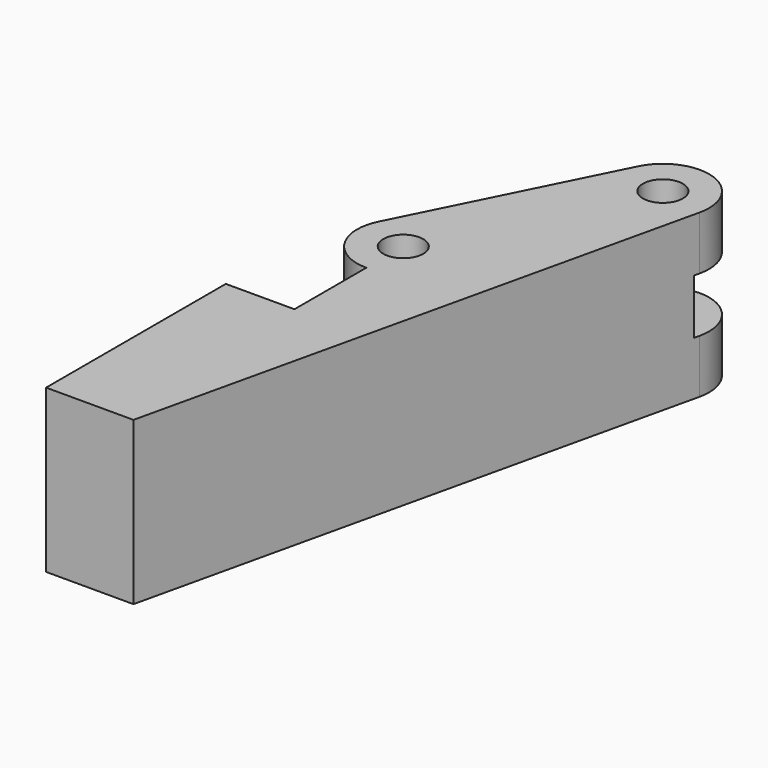
from build123d import *

# Parameters (mm, degrees)
CYLINDER005_R            = 1.6
CYLINDER005_DEPTH        = 30
PAD001_DEPTH             = 13
SKETCH001_W              = 28
SKETCH001_H              = 4.4
POCKET002_DEPTH          = 7.4
CLONE016_PLACEMENT_ANGLE = 180


with BuildPart() as finger_drill_master:
    # Cylinder005 → Cylinder005 (new body)
    with BuildSketch(Plane.XY.offset(-8)):
        Circle(CYLINDER005_R)
    extrude(amount=CYLINDER005_DEPTH)


with BuildPart() as clone001:
    # Clone001 base: copy of finger-drill-master
    add(finger_drill_master.part)


with BuildPart() as clone001_1:
    # Clone001 placement: moved
    add(clone001.part.moved(Location((-5.5, 28.9, 0))))


with BuildPart() as finger_drills:
    # Clone002 base: copy of finger-drill-master
    add(finger_drill_master.part)


with BuildPart() as finger_drills_1:
    # Clone002 placement: moved
    add(finger_drills.part.moved(Location((-13.5, 44.9, 0))))

    # Fusion011: union Clone001
    add(clone001_1.part)


with BuildPart() as clone_of_right_finger:
    # Sketch007 → Pad001 (new body)
    with BuildSketch(Plane.XY):
        with BuildLine():
            Line((0, 0), (0, 18))
            Line((0, 18), (-5.5, 18))
            Line((-5.5, 18), (-5.5, 25.2))
            ThreePointArc((-5.5, 25.2), (-2.3525883805, 26.9548007564), (-2.1906255667, 30.55470265))
            Line((-10.1906192745, 46.5546900658), (-2.1906255667, 30.55470265))
            ThreePointArc((-10.1906192745, 46.5546900658), (-14.7496924515, 48.3825664066), (-17.1063967324, 44.0730159565))
            Line((-17.1063967324, 44.0730159565), (-7, 0))
            Line((-7, 0), (0, 0))
        make_face()
    extrude(amount=PAD001_DEPTH)

    # Sketch001 → Pocket002 (cut)
    with BuildSketch(Plane(origin=(10.4693806066, 5.2346903033, 0), x_dir=(-0.4472135955, 0.894427191, 0), z_dir=(0.894427191, 0.4472135955, 0))):
        with Locations((37.2528992744, 6.5)):
            Rectangle(SKETCH001_W, SKETCH001_H)
    extrude(amount=-POCKET002_DEPTH, mode=Mode.SUBTRACT)

    # Cut012: cut finger-drills
    add(finger_drills_1.part, mode=Mode.SUBTRACT)


with BuildPart() as clone_of_right_finger_1:
    # Cut012 placement: moved
    add(clone_of_right_finger.part.moved(Location((0, -57, 0))))


with BuildPart() as clone_of_right_finger_2:
    # Clone016 placement: moved
    add(clone_of_right_finger_1.part.moved(Location((230.4617805391, 242.2542559908, 13))).rotate(Axis((230.4617805391, 242.2542559908, 13), (0, 1, 0)), CLONE016_PLACEMENT_ANGLE))


with BuildPart() as clone_of_right_finger_3:
    # Clone184 placement: moved
    add(clone_of_right_finger_2.part.moved(Location((-14, -699, 18.3))))


solid = clone_of_right_finger_3.part
